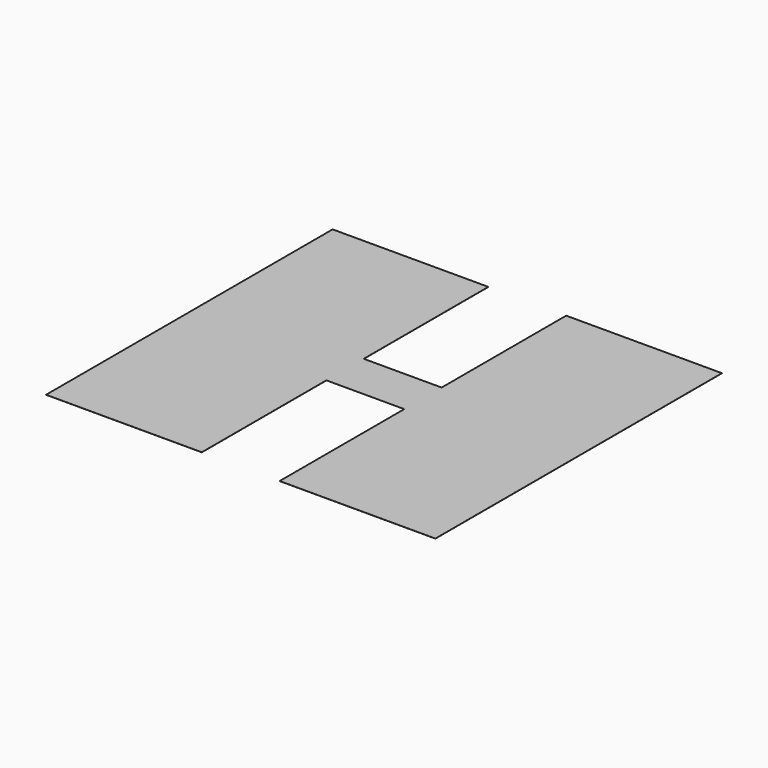
from build123d import *

# Parameters (mm, degrees)
F0_W     = 300
F0_H     = 0.1
F1_DEPTH = 250
F2_W     = 300
F2_H     = 0.6
F3_DEPTH = 1000
F4_W     = 300
F4_H     = 0.6
F5_DEPTH = 1000
F6_W     = 1000
F6_H     = 0.6
F7_DEPTH = 1000
F8_W     = 1000
F8_H     = 0.6
F9_DEPTH = 1000


with BuildPart() as f1:
    # F0 (on Right) → F1 (new body, symmetric)
    with BuildSketch(Plane.YZ):
        with Locations((150, 0.05)):
            Rectangle(F0_W, F0_H)
    extrude(amount=F1_DEPTH, both=True)

    # F2 (on face) → F3 (join)
    with BuildSketch(Plane.YZ.offset(250)):
        with Locations((150, -0.2)):
            Rectangle(F2_W, F2_H)
    extrude(amount=F3_DEPTH)

    # F4 (on face) → F5 (join)
    with BuildSketch(Plane(origin=(-250, 0, 0), x_dir=(0, -1, 0), z_dir=(-1, 0, 0))):
        with Locations((-150, -0.2)):
            Rectangle(F4_W, F4_H)
    extrude(amount=F5_DEPTH)

    # F6 (on face) → F7 (join)
    with BuildSketch(Plane.XZ):
        with Locations((-750, -0.2)):
            Rectangle(F6_W, F6_H)
        with Locations((750, -0.2)):
            Rectangle(F6_W, F6_H)
    extrude(amount=F7_DEPTH)

    # F8 (on face) → F9 (join)
    with BuildSketch(Plane(origin=(0, 300, 0), x_dir=(-1, 0, 0), z_dir=(0, 1, 0))):
        with Locations((-750, -0.2)):
            Rectangle(F8_W, F8_H)
        with Locations((750, -0.2)):
            Rectangle(F8_W, F8_H)
    extrude(amount=F9_DEPTH)


solid = f1.part
